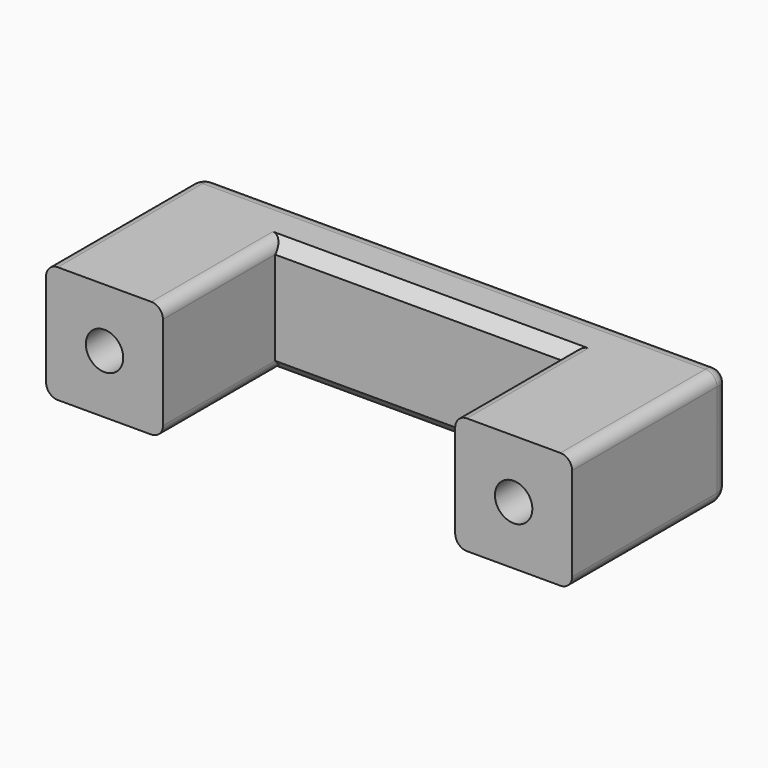
from build123d import *

# Parameters (mm, degrees)
PAD_DEPTH       = 10
SKETCH001_R     = 1.6
POCKET_DEPTH    = 17.001
POCKET001_DEPTH = 2.5
FILLET_R        = 1.5
FILLET001_R     = 1
CHAMFER_SIZE    = 1


with BuildPart() as part:
    # Sketch → Pad (new body)
    with BuildSketch(Plane.XY):
        Polygon((-12.5, -8.5), (-12.5, 3.5), (12.5, 3.5), (12.5, -8.5), (22.5, -8.5), (22.5, 8.5), (-22.5, 8.5), (-22.5, -8.5), align=None)
    extrude(amount=PAD_DEPTH)

    # Sketch001 (on Face4 of Pad) → Pocket (cut, through all)
    with BuildSketch(Plane.XZ.offset(8.5)):
        with Locations((-17.5, 5)):
            Circle(SKETCH001_R)
        with Locations((17.5, 5)):
            Circle(SKETCH001_R)
    extrude(amount=-POCKET_DEPTH, mode=Mode.SUBTRACT)

    # Sketch002 (on Face11 of Pocket) → Pocket001 (cut)
    with BuildSketch(Plane(origin=(0, 8.5, 0), x_dir=(-1, 0, 0), z_dir=(0, 1, 0))):
        Polygon((-17.5, 8.233162), (-20.3, 6.616581), (-20.3, 3.383419), (-17.5, 1.766838), (-14.7, 3.383419), (-14.7, 6.616581), align=None)
        Polygon((17.5, 8.233162), (14.7, 6.616581), (14.7, 3.383419), (17.5, 1.766838), (20.3, 3.383419), (20.3, 6.616581), align=None)
    extrude(amount=-POCKET001_DEPTH, mode=Mode.SUBTRACT)

    # Fillet
    fillet_edges = [part.edges().sort_by_distance(p)[0] for p in [
        (0, 8.5, 0),
        (0, 8.5, 10),
        (-22.5, 8.5, 5),
        (22.5, 8.5, 5),
    ]]
    fillet(fillet_edges, radius=FILLET_R)

    # Fillet001
    fillet001_edges = [part.edges().sort_by_distance(p)[0] for p in [
        (-12.5, -2.5, 0),
        (-12.5, -2.5, 10),
        (-22.5, -0.75, 0),
        (-22.5, -0.75, 10),
        (12.5, -2.5, 10),
        (12.5, -2.5, 0),
        (22.5, -0.75, 0),
        (22.5, -0.75, 10),
    ]]
    fillet(fillet001_edges, radius=FILLET001_R)

    # Chamfer
    chamfer_edges = [part.edges().sort_by_distance(p)[0] for p in [
        (0, 3.5, 0),
        (0, 3.5, 10),
    ]]
    chamfer(chamfer_edges, length=CHAMFER_SIZE)


solid = part.part
